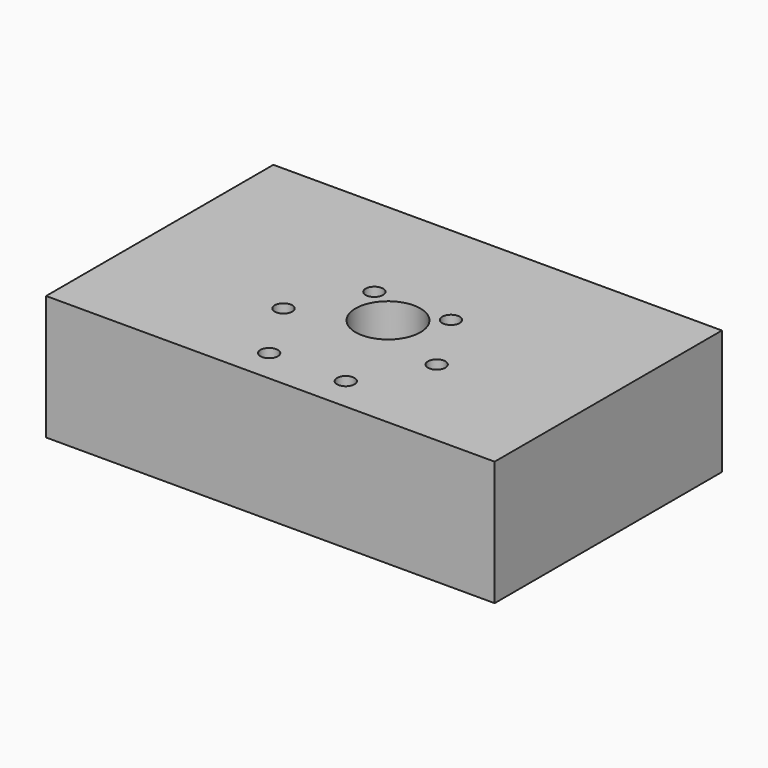
from build123d import *

# Parameters (mm, degrees)
F0_W     = 90
F0_H     = 57
F0_R     = 1.75
F1_DEPTH = 25


with BuildPart() as f1:
    # F0 (on Top) → F1 (new body)
    with BuildSketch(Plane.XY):
        with Locations((-4, -0.6)):
            Rectangle(F0_W, F0_H)
        with Locations((-9.6017556655, -22.3952072493)):
            Circle(F0_R, mode=Mode.SUBTRACT)
        with BuildLine():
            ThreePointArc((-15.5648804785, -9.1569438638), (-15.5648689141, -9.1606169763), (-15.5648650592, -9.164290105))
            ThreePointArc((-15.5648650592, -9.164290105), (-19.0648612044, -9.1679632337), (-15.5648804785, -9.1569438638))
        make_face(mode=Mode.SUBTRACT)
        with Locations((5.7131093938, -22.3309171443)):
            Circle(F0_R, mode=Mode.SUBTRACT)
        with Locations((13.3148650592, -9.035709895)):
            Circle(F0_R, mode=Mode.SUBTRACT)
        with BuildLine():
            ThreePointArc((4.5, -2.1), (2.5543198547, -6.7376902291), (-2.117898665, -8.5989306739))
            ThreePointArc((-2.117898665, -8.5989306739), (-6.5543198547, 2.5376902291), (4.5, -2.1))
        make_face(mode=Mode.SUBTRACT)
        with Locations((-9.7131093938, 4.1309171443)):
            Circle(F0_R, mode=Mode.SUBTRACT)
        with Locations((5.6017556655, 4.1952072493)):
            Circle(F0_R, mode=Mode.SUBTRACT)
    extrude(amount=F1_DEPTH)


solid = f1.part
